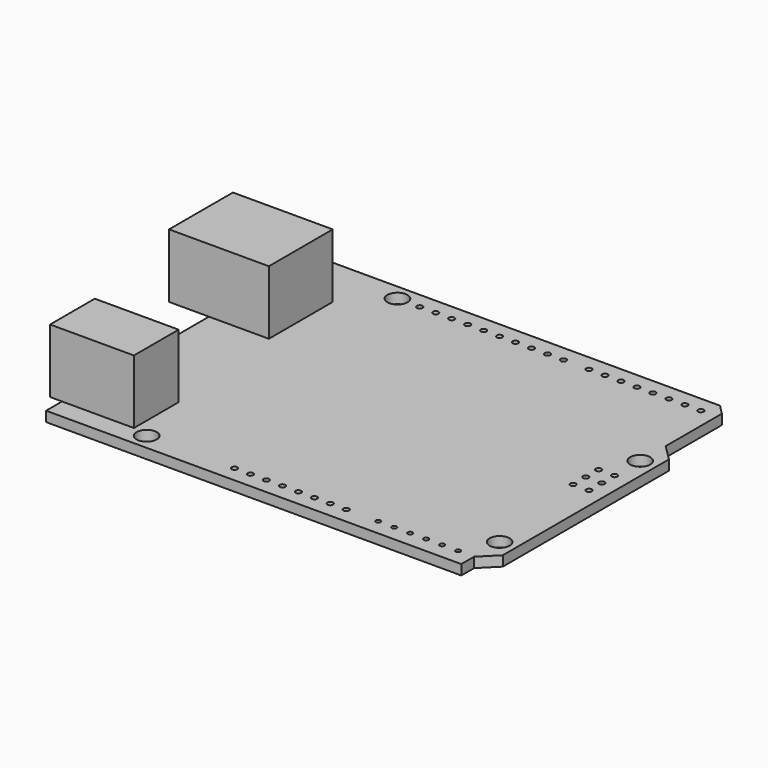
from build123d import *

# Parameters (mm, degrees)
PAD_DEPTH       = 1.6
SKETCH001_W     = 13.335
SKETCH001_H     = 8.89
SKETCH001_W_2   = 15.875
SKETCH001_H_2   = 12.7
PAD001_DEPTH    = 10.16
SKETCH002_R     = 1.6
POCKET_DEPTH    = 5.00126
SKETCH003_R     = 0.45
POCKET001_DEPTH = 5.00126
SKETCH004_R     = 0.45
POCKET002_DEPTH = 5.00126
SKETCH005_R     = 0.381
POCKET003_DEPTH = 5.00126
SKETCH006_R     = 0.45
POCKET004_DEPTH = 5.00126
SKETCH007_R     = 0.45
POCKET005_DEPTH = 5.00126


with BuildPart() as part:
    # Sketch → Pad (new body)
    with BuildSketch(Plane.XY):
        Polygon((0, 0), (66.04, 0), (66.04, 2.54), (68.58, 5.08), (68.58, 38.1), (66.04, 40.64), (66.04, 51.816), (64.516, 53.34), (0, 53.34), align=None)
    extrude(amount=-PAD_DEPTH)

    # Sketch001 → Pad001 (join)
    with BuildSketch(Plane.XY):
        with Locations((4.7625, 7.62)):
            Rectangle(SKETCH001_W, SKETCH001_H)
        with Locations((1.5875, 38.735)):
            Rectangle(SKETCH001_W_2, SKETCH001_H_2)
    extrude(amount=PAD001_DEPTH)

    # Sketch002 → Pocket (cut)
    with BuildSketch(Plane.XY):
        with Locations((13.97, 2.54)):
            Circle(SKETCH002_R)
        with Locations((15.24, 50.8)):
            Circle(SKETCH002_R)
        with Locations((66.04, 35.56)):
            Circle(SKETCH002_R)
        with Locations((66.04, 7.62)):
            Circle(SKETCH002_R)
    extrude(amount=-POCKET_DEPTH, mode=Mode.SUBTRACT)

    # Sketch003 → Pocket001 (cut)
    with BuildSketch(Plane.XY):
        with Locations((63.5, 30.48)):
            Circle(SKETCH003_R)
        with Locations((63.5, 27.94)):
            Circle(SKETCH003_R)
        with Locations((63.5, 25.4)):
            Circle(SKETCH003_R)
        with Locations((66.04, 30.48)):
            Circle(SKETCH003_R)
        with Locations((66.04, 27.94)):
            Circle(SKETCH003_R)
        with Locations((66.04, 25.4)):
            Circle(SKETCH003_R)
    extrude(amount=-POCKET001_DEPTH, mode=Mode.SUBTRACT)

    # Sketch004 → Pocket002 (cut)
    with BuildSketch(Plane.XY):
        with Locations((27.94, 2.54)):
            Circle(SKETCH004_R)
        with Locations((30.48, 2.54)):
            Circle(SKETCH004_R)
        with Locations((33.02, 2.54)):
            Circle(SKETCH004_R)
        with Locations((35.56, 2.54)):
            Circle(SKETCH004_R)
        with Locations((40.64, 2.54)):
            Circle(SKETCH004_R)
        with Locations((43.18, 2.54)):
            Circle(SKETCH004_R)
        with Locations((45.72, 2.54)):
            Circle(SKETCH004_R)
        with Locations((38.1, 2.54)):
            Circle(SKETCH004_R)
    extrude(amount=-POCKET002_DEPTH, mode=Mode.SUBTRACT)

    # Sketch005 → Pocket003 (cut)
    with BuildSketch(Plane.XY):
        with Locations((50.8, 2.54)):
            Circle(SKETCH005_R)
        with Locations((63.5, 2.54)):
            Circle(SKETCH005_R)
        with Locations((60.96, 2.54)):
            Circle(SKETCH005_R)
        with Locations((58.42, 2.54)):
            Circle(SKETCH005_R)
        with Locations((55.88, 2.54)):
            Circle(SKETCH005_R)
        with Locations((53.34, 2.54)):
            Circle(SKETCH005_R)
    extrude(amount=-POCKET003_DEPTH, mode=Mode.SUBTRACT)

    # Sketch006 → Pocket004 (cut)
    with BuildSketch(Plane.XY):
        with Locations((45.72, 50.8)):
            Circle(SKETCH006_R)
        with Locations((63.5, 50.8)):
            Circle(SKETCH006_R)
        with Locations((48.26, 50.8)):
            Circle(SKETCH006_R)
        with Locations((50.8, 50.8)):
            Circle(SKETCH006_R)
        with Locations((53.34, 50.8)):
            Circle(SKETCH006_R)
        with Locations((55.88, 50.8)):
            Circle(SKETCH006_R)
        with Locations((58.42, 50.8)):
            Circle(SKETCH006_R)
        with Locations((60.96, 50.8)):
            Circle(SKETCH006_R)
    extrude(amount=-POCKET004_DEPTH, mode=Mode.SUBTRACT)

    # Sketch007 → Pocket005 (cut)
    with BuildSketch(Plane.XY):
        with Locations((18.796, 50.8)):
            Circle(SKETCH007_R)
        with Locations((41.656, 50.8)):
            Circle(SKETCH007_R)
        with Locations((21.336, 50.8)):
            Circle(SKETCH007_R)
        with Locations((23.876, 50.8)):
            Circle(SKETCH007_R)
        with Locations((26.416, 50.8)):
            Circle(SKETCH007_R)
        with Locations((31.496, 50.8)):
            Circle(SKETCH007_R)
        with Locations((34.036, 50.8)):
            Circle(SKETCH007_R)
        with Locations((36.576, 50.8)):
            Circle(SKETCH007_R)
        with Locations((39.116, 50.8)):
            Circle(SKETCH007_R)
        with Locations((28.956, 50.8)):
            Circle(SKETCH007_R)
    extrude(amount=-POCKET005_DEPTH, mode=Mode.SUBTRACT)


solid = part.part
